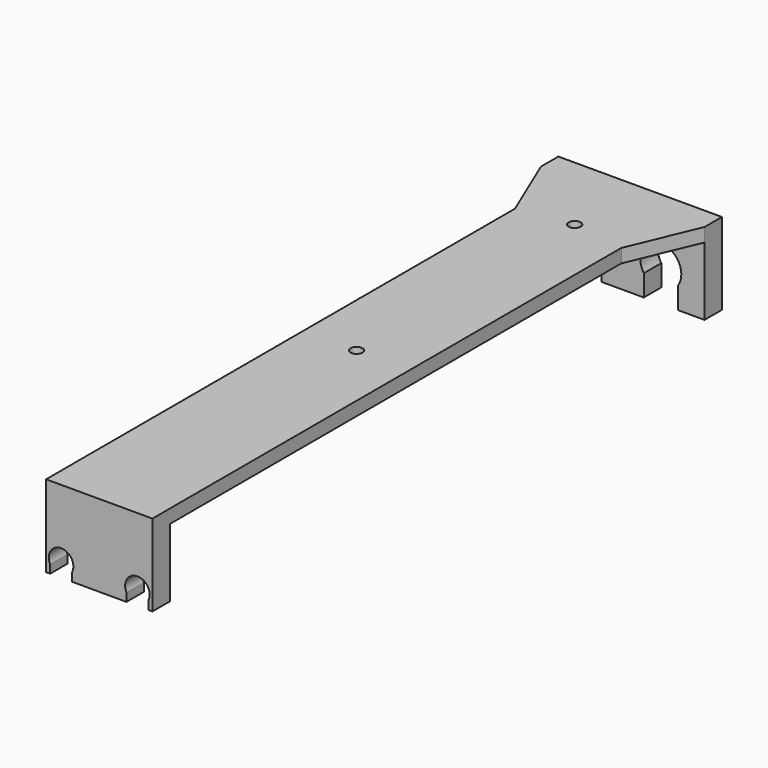
from build123d import *

# Parameters (mm, degrees)
PAD_DEPTH        = 8
SKETCH001_W      = 60
SKETCH001_H      = 5
PAD001_DEPTH     = 240
POCKET_DEPTH     = 5.001
POCKET001_DEPTH  = 5.001
PAD002_DEPTH     = 8
HOLE_D           = 4.4
HOLE_CSINK_D     = 8
HOLE_CSINK_ANGLE = 90


with BuildPart() as part:
    # Sketch → Pad (new body)
    with BuildSketch(Plane.XZ):
        with BuildLine():
            Line((-30, 0), (30, 0))
            Line((30, 0), (30, -30))
            Line((30, -30), (20.25, -30))
            Line((20.25, -22.145781), (20.25, -30))
            ThreePointArc((20.25, -22.145781), (14, -10.5), (7.75, -22.145781))
            Line((7.75, -22.145781), (7.75, -30))
            Line((7.75, -30), (-7.75, -30))
            Line((-7.75, -22.145781), (-7.75, -30))
            ThreePointArc((-7.75, -22.145781), (-14, -10.5), (-20.25, -22.145781))
            Line((-20.25, -22.145781), (-20.25, -30))
            Line((-20.25, -30), (-30, -30))
            Line((-30, -30), (-30, 0))
        make_face()
    extrude(amount=PAD_DEPTH)

    # Sketch001 (on Face14 of Pad) → Pad001 (join)
    with BuildSketch(Plane.XZ.offset(8)):
        with Locations((0, -2.5)):
            Rectangle(SKETCH001_W, SKETCH001_H)
    extrude(amount=PAD001_DEPTH)

    # Sketch002 (on Face15 of Pad001) → Pocket (cut, through all)
    with BuildSketch(Plane(origin=(0, 0, -5), x_dir=(1, 0, 0), z_dir=(0, 0, -1))):
        Polygon((-19.5, 251), (-33, 251), (-33, 0.857143), (-19.5, 33), align=None)
    extrude(amount=-POCKET_DEPTH, mode=Mode.SUBTRACT)

    # Sketch003 (on Face15 of Pocket) → Pocket001 (cut, through all)
    with BuildSketch(Plane(origin=(0, 0, -5), x_dir=(1, 0, 0), z_dir=(0, 0, -1))):
        Polygon((19.5, 251), (33, 251), (33, 0.857143), (19.5, 33), align=None)
    extrude(amount=-POCKET001_DEPTH, mode=Mode.SUBTRACT)

    # Sketch004 (on Face20 of Pocket001) → Pad002 (join)
    with BuildSketch(Plane.XZ.offset(248)):
        with BuildLine():
            Line((-19.5, 0), (19.5, 0))
            Line((19.5, 0), (19.5, -30))
            Line((19.5, -30), (18, -30))
            Line((18, -27), (18, -30))
            ThreePointArc((18, -27), (14, -20.438447), (10, -27))
            Line((10, -27), (10, -30))
            Line((10, -30), (-10, -30))
            Line((-10, -27), (-10, -30))
            ThreePointArc((-10, -27), (-14, -20.438447), (-18, -27))
            Line((-18, -27), (-18, -30))
            Line((-18, -30), (-19.5, -30))
            Line((-19.5, -30), (-19.5, 0))
        make_face()
    extrude(amount=-PAD002_DEPTH)

    # Hole (through all)
    with Locations(Plane(origin=(0, 0, -5), x_dir=(1, 0, 0), z_dir=(0, 0, -1))):
        with Locations((0, 30), (0, 130)):
            CounterSinkHole(HOLE_D / 2, HOLE_CSINK_D / 2, counter_sink_angle=HOLE_CSINK_ANGLE)


solid = part.part
